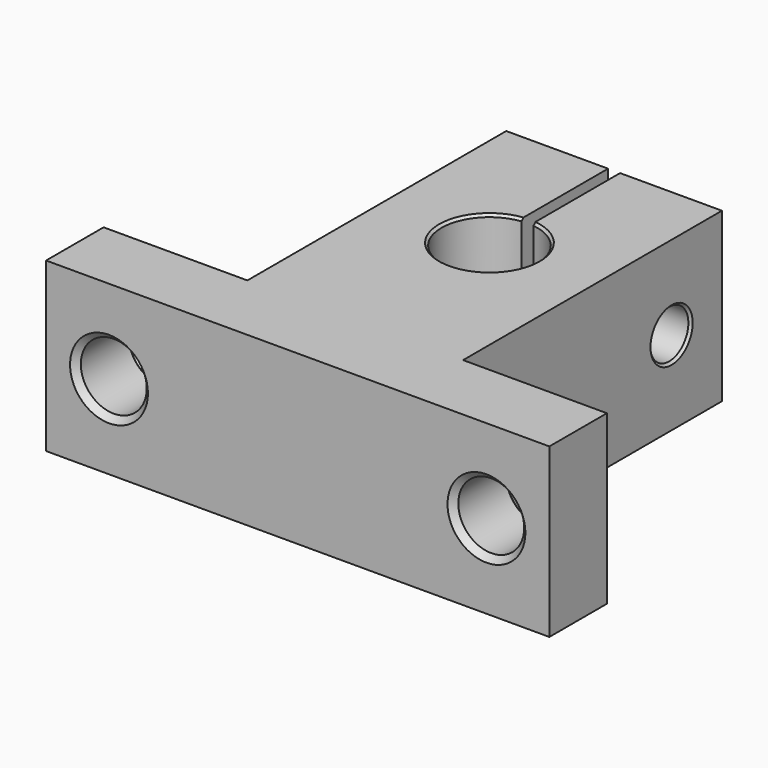
from build123d import *

# Parameters (mm, degrees)
CYLINDER044_R      = 3.5
CYLINDER044_DEPTH  = 4.75
CYLINDER043_R      = 2
CYLINDER043_DEPTH  = 18
CYLINDER046_R      = 4
CYLINDER046_DEPTH  = 14
BOX018_W           = 1
BOX018_H           = 10
BOX018_DEPTH       = 14
CYLINDER042_R      = 2.75
CYLINDER042_DEPTH  = 6
CYLINDER045_R      = 2.75
CYLINDER045_DEPTH  = 6
BOX017_W           = 42
BOX017_H           = 6
BOX017_DEPTH       = 14
BOX019_W           = 18
BOX019_H           = 27
BOX019_DEPTH       = 14
CHAMFER001009_SIZE = 0.5
CHAMFER001011_SIZE = 0.2


with BuildPart() as cylinder044:
    # Cylinder044 → Cylinder044 (new body)
    with BuildSketch(Plane(origin=(0, 21.75, 7), x_dir=(0, 0, -1), z_dir=(1, 0, 0))):
        Circle(CYLINDER044_R)
    extrude(amount=CYLINDER044_DEPTH)


with BuildPart() as cylinder043:
    # Cylinder043 → Cylinder043 (new body)
    with BuildSketch(Plane(origin=(0, 21.75, 7), x_dir=(0, 0, -1), z_dir=(1, 0, 0))):
        Circle(CYLINDER043_R)
    extrude(amount=CYLINDER043_DEPTH)


with BuildPart() as cylinder046:
    # Cylinder046 → Cylinder046 (new body)
    with BuildSketch(Plane(origin=(9, 14, 0), x_dir=(1, 0, 0), z_dir=(0, 0, 1))):
        Circle(CYLINDER046_R)
    extrude(amount=CYLINDER046_DEPTH)


with BuildPart() as cube013:
    # Box018 → Box018 (new body)
    with BuildSketch(Plane(origin=(8.5, 17, 0), x_dir=(1, 0, 0), z_dir=(0, 0, 1))):
        with Locations((0.5, 5)):
            Rectangle(BOX018_W, BOX018_H)
    extrude(amount=BOX018_DEPTH)


with BuildPart() as cylinder042:
    # Cylinder042 → Cylinder042 (new body)
    with BuildSketch(Plane(origin=(24.75, 0, 7), x_dir=(1, 0, 0), z_dir=(0, -1, 0))):
        Circle(CYLINDER042_R)
    extrude(amount=CYLINDER042_DEPTH)


with BuildPart() as cylinder045:
    # Cylinder045 → Cylinder045 (new body)
    with BuildSketch(Plane(origin=(-6.75, 0, 7), x_dir=(1, 0, 0), z_dir=(0, -1, 0))):
        Circle(CYLINDER045_R)
    extrude(amount=CYLINDER045_DEPTH)


with BuildPart() as cube012:
    # Box017 → Box017 (new body)
    with BuildSketch(Plane(origin=(-12, -6, 0), x_dir=(1, 0, 0), z_dir=(0, 0, 1))):
        with Locations((21, 3)):
            Rectangle(BOX017_W, BOX017_H)
    extrude(amount=BOX017_DEPTH)


with BuildPart() as chamfer001011:
    # Box019 → Box019 (new body)
    with BuildSketch(Plane.XY):
        with Locations((9, 13.5)):
            Rectangle(BOX019_W, BOX019_H)
    extrude(amount=BOX019_DEPTH)

    # Fusion007007: union Cube012
    add(cube012.part)

    # Cut002033: cut Cylinder045
    add(cylinder045.part, mode=Mode.SUBTRACT)

    # Cut002031: cut Cylinder042
    add(cylinder042.part, mode=Mode.SUBTRACT)

    # Cut002030: cut Cube013
    add(cube013.part, mode=Mode.SUBTRACT)

    # Cut002034: cut Cylinder046
    add(cylinder046.part, mode=Mode.SUBTRACT)

    # Cut002032: cut Cylinder043
    add(cylinder043.part, mode=Mode.SUBTRACT)

    # Cut002029: cut Cylinder044
    add(cylinder044.part, mode=Mode.SUBTRACT)

    # Chamfer001009
    chamfer001009_edges = [chamfer001011.edges().sort_by_distance(p)[0] for p in [
        (0, 21.75, 10.5),
        (-9.5, 0, 7),
        (22, 0, 7),
        (-9.5, -6, 7),
        (22, -6, 7),
    ]]
    chamfer(chamfer001009_edges, length=CHAMFER001009_SIZE)

    # Chamfer001011
    chamfer001011_edges = [chamfer001011.edges().sort_by_distance(p)[0] for p in [
        (6.354249, 11, 14),
        (12, 16.645751, 14),
        (6.354249, 11, 0),
        (12, 16.645751, 0),
        (18, 21.75, 9),
    ]]
    chamfer(chamfer001011_edges, length=CHAMFER001011_SIZE)


solid = chamfer001011.part
